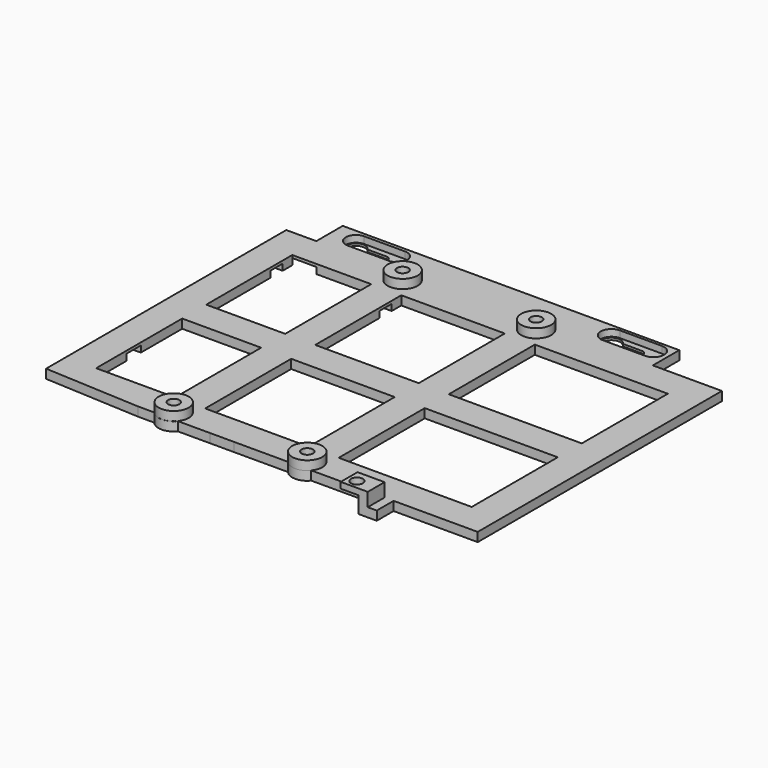
from build123d import *

# Parameters (mm, degrees)
SKETCH_R        = 1.875
SKETCH_W        = 26.28
SKETCH_H        = 35.8
SKETCH_W_2      = 34.45
SKETCH_W_3      = 44.27
PAD_DEPTH       = 3
SKETCH001_W     = 6
SKETCH001_H     = 3
PAD001_DEPTH    = 7
SKETCH002_W     = 3
SKETCH002_H     = 7
PAD002_DEPTH    = 4.5
SKETCH003_W     = 7
SKETCH003_H     = 2
PAD003_DEPTH    = 6
SKETCH004_R     = 2
POCKET_DEPTH    = 5
SKETCH005_R     = 5
SKETCH005_R_2   = 1.875
PAD004_DEPTH    = 6
POCKET001_DEPTH = 2.25
CHAMFER_SIZE    = 2.5
SKETCH007_W     = 46.28
SKETCH007_H     = 5
SKETCH007_W_2   = 18
SKETCH007_H_2   = 7
SKETCH007_W_3   = 10
SKETCH007_H_3   = 6
POCKET002_DEPTH = 2.1


with BuildPart() as part:
    # Sketch → Pad (new body)
    with BuildSketch(Plane.XY):
        with BuildLine():
            Line((-72.5, 50.8), (-72.5, -49.125249))
            Line((-72.5, -49.125249), (-40.543855, -50.8))
            Line((-40.543855, -50.8), (-35.113855, -50.8))
            ThreePointArc((-35.113855, -50.8), (-31.221817, -52.647375), (-27.328445, -50.802814))
            Line((-27.328445, -50.802814), (-16.628445, -50.802814))
            Line((-16.628445, -50.802814), (-8.628445, -50.8))
            Line((-8.628445, -50.8), (9.371555, -50.8))
            ThreePointArc((9.371555, -50.8), (13.23, -52.62), (17.088445, -50.8))
            Line((17.088445, -50.8), (72.5, -50.8))
            Line((72.5, -50.8), (72.5, 50.8))
            Line((49.5, 50.8), (72.5, 50.8))
            Line((49.5, 50.8), (49.5, 61.8))
            Line((49.5, 61.8), (-62.5, 61.8))
            Line((-62.5, 50.8), (-62.5, 61.8))
            Line((-72.5, 50.8), (-62.5, 50.8))
        make_face()
        with Locations((13.23, 47.62)):
            Circle(SKETCH_R, mode=Mode.SUBTRACT)
        with Locations((13.23, -47.62)):
            Circle(SKETCH_R, mode=Mode.SUBTRACT)
        with Locations((-31.22, -47.62)):
            Circle(SKETCH_R, mode=Mode.SUBTRACT)
        with Locations((-31.22, 47.62)):
            Circle(SKETCH_R, mode=Mode.SUBTRACT)
        with Locations((-49.36, 22.9)):
            Rectangle(SKETCH_W, SKETCH_H, mode=Mode.SUBTRACT)
        with Locations((-8.995, 22.9)):
            Rectangle(SKETCH_W_2, SKETCH_H, mode=Mode.SUBTRACT)
        with Locations((40.365, 22.9)):
            Rectangle(SKETCH_W_3, SKETCH_H, mode=Mode.SUBTRACT)
        with Locations((40.365, -22.9)):
            Rectangle(SKETCH_W_3, SKETCH_H, mode=Mode.SUBTRACT)
        with Locations((-8.995, -22.9)):
            Rectangle(SKETCH_W_2, SKETCH_H, mode=Mode.SUBTRACT)
        with Locations((-49.36, -22.9)):
            Rectangle(SKETCH_W, SKETCH_H, mode=Mode.SUBTRACT)
        with BuildLine():
            ThreePointArc((-45.5, 55.8), (-44, 57.3), (-45.5, 58.8))
            Line((-45.5, 58.8), (-51.901924, 58.8))
            ThreePointArc((-51.901924, 58.8), (-57.5, 57.3), (-51.901924, 55.8))
            Line((-45.5, 55.8), (-51.901924, 55.8))
        make_face(mode=Mode.SUBTRACT)
        with BuildLine():
            ThreePointArc((39.5, 55.8), (41, 57.3), (39.5, 58.8))
            Line((39.5, 58.8), (33.098076, 58.8))
            ThreePointArc((33.098076, 58.8), (27.5, 57.3), (33.098076, 55.8))
            Line((39.5, 55.8), (33.098076, 55.8))
        make_face(mode=Mode.SUBTRACT)
    extrude(amount=PAD_DEPTH)

    # Sketch001 (on Face9 of Pad) → Pad001 (join)
    with BuildSketch(Plane.XZ.offset(50.8)):
        with Locations((41.5, 1.5)):
            Rectangle(SKETCH001_W, SKETCH001_H)
    extrude(amount=PAD001_DEPTH)

    # Sketch002 (on Face56 of Pad001) → Pad002 (join)
    with BuildSketch(Plane.XY.offset(3)):
        with Locations((40, -54.3)):
            Rectangle(SKETCH002_W, SKETCH002_H)
    extrude(amount=PAD002_DEPTH)

    # Sketch003 (on Face61 of Pad002) → Pad003 (join)
    with BuildSketch(Plane(origin=(38.5, 0, 0), x_dir=(0, -1, 0), z_dir=(-1, 0, 0))):
        with Locations((54.3, 6.5)):
            Rectangle(SKETCH003_W, SKETCH003_H)
    extrude(amount=PAD003_DEPTH)

    # Sketch004 (on Face67 of Pad003) → Pocket (cut)
    with BuildSketch(Plane.XY.offset(7.5)):
        with Locations((35.5, -54.8)):
            Circle(SKETCH004_R)
    extrude(amount=-POCKET_DEPTH, mode=Mode.SUBTRACT)

    # Sketch005 → Pad004 (join)
    with BuildSketch(Plane.XY):
        with Locations((-31.22, 47.62)):
            Circle(SKETCH005_R)
        with Locations((-31.22, 47.62)):
            Circle(SKETCH005_R_2, mode=Mode.SUBTRACT)
        with Locations((13.23, 47.62)):
            Circle(SKETCH005_R)
        with Locations((13.23, 47.62)):
            Circle(SKETCH005_R_2, mode=Mode.SUBTRACT)
        with Locations((-31.22, -47.62)):
            Circle(SKETCH005_R)
        with Locations((-31.22, -47.62)):
            Circle(SKETCH005_R_2, mode=Mode.SUBTRACT)
        with Locations((13.23, -47.62)):
            Circle(SKETCH005_R)
        with Locations((13.23, -47.62)):
            Circle(SKETCH005_R_2, mode=Mode.SUBTRACT)
    extrude(amount=PAD004_DEPTH)

    # Sketch006 (on Face5 of Pad004) → Pocket001 (cut)
    with BuildSketch(Plane.XY.offset(3)):
        with BuildLine():
            ThreePointArc((-54.5, 60.68), (-57.88, 57.3), (-54.5, 53.92))
            Line((-54.5, 53.92), (-40.82, 53.92))
            ThreePointArc((-40.82, 53.92), (-37.44, 57.3), (-40.82, 60.68))
            Line((-40.82, 60.68), (-54.5, 60.68))
        make_face()
        with BuildLine():
            ThreePointArc((30.5, 60.84), (26.96, 57.3), (30.5, 53.76))
            Line((30.5, 53.76), (44.52, 53.76))
            ThreePointArc((44.52, 53.76), (48.06, 57.3), (44.52, 60.84))
            Line((44.52, 60.84), (30.5, 60.84))
        make_face()
    extrude(amount=-POCKET001_DEPTH, mode=Mode.SUBTRACT)

    # Chamfer
    chamfer_edges = [part.edges().sort_by_distance(p)[0] for p in [
        (-29.345, -47.62, 1.5),
        (-33.095, -47.62, 0),
        (-33.095, -47.62, 3),
        (15.105, -47.62, 1.5),
        (11.355, -47.62, 0),
        (11.355, -47.62, 3),
        (-29.345, 47.62, 1.5),
        (-33.095, 47.62, 0),
        (-33.095, 47.62, 3),
        (15.105, 47.62, 1.5),
        (11.355, 47.62, 0),
        (11.355, 47.62, 3),
    ]]
    chamfer(chamfer_edges, length=CHAMFER_SIZE)

    # Sketch007 (on Face52 of Pad) → Pocket002 (cut)
    with BuildSketch(Plane(origin=(0, 0, 0), x_dir=(1, 0, 0), z_dir=(0, 0, -1))):
        with Locations((-49.36, -34.3)):
            Rectangle(SKETCH007_W, SKETCH007_H)
        with Locations((-63.5, -44.3)):
            Rectangle(SKETCH007_W_2, SKETCH007_H_2)
        with Locations((-67.5, 25.2)):
            Rectangle(SKETCH007_W_3, SKETCH007_H_3)
    extrude(amount=-POCKET002_DEPTH, mode=Mode.SUBTRACT)


solid = part.part
